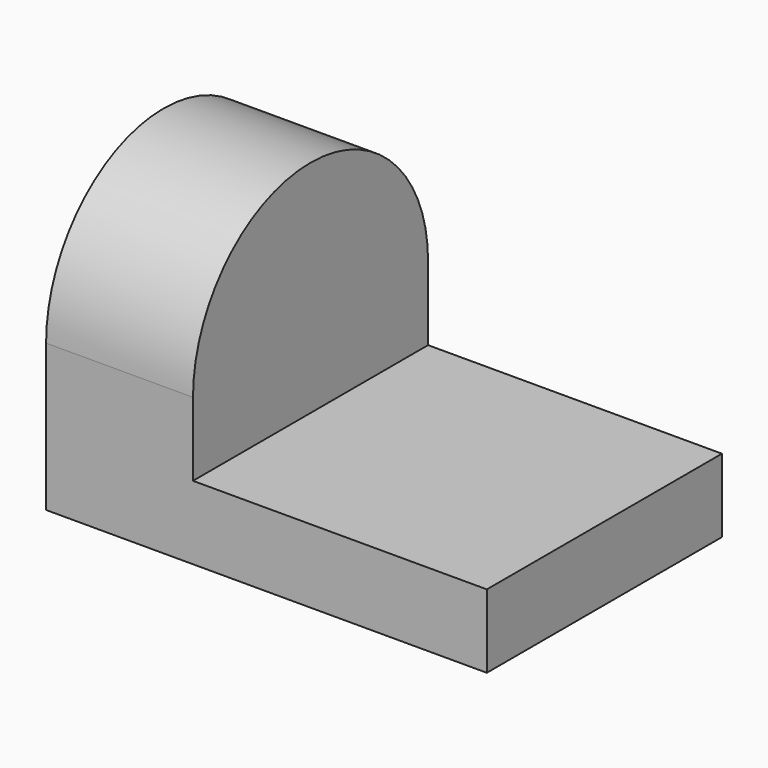
from build123d import *

# Parameters (mm, degrees)
F0_W     = 152.4
F0_H     = 101.6
F1_DEPTH = 25.4
F2_W     = 101.6
F2_H     = 25.4
F3_DEPTH = 50.8


with BuildPart() as f1:
    # F0 (on Top) → F1 (new body)
    with BuildSketch(Plane.XY):
        with Locations((-76.2, 50.8)):
            Rectangle(F0_W, F0_H)
    extrude(amount=F1_DEPTH)

    # F2 (on face) → F3 (join)
    with BuildSketch(Plane(origin=(-152.4, 0, 0), x_dir=(0, -1, 0), z_dir=(-1, 0, 0))):
        with Locations((-50.8, 38.1)):
            Rectangle(F2_W, F2_H)
        with BuildLine():
            ThreePointArc((0, 50.8), (-50.8, 101.6), (-101.6, 50.8))
            Line((-101.6, 50.8), (0, 50.8))
        make_face()
    extrude(amount=-F3_DEPTH)


solid = f1.part
